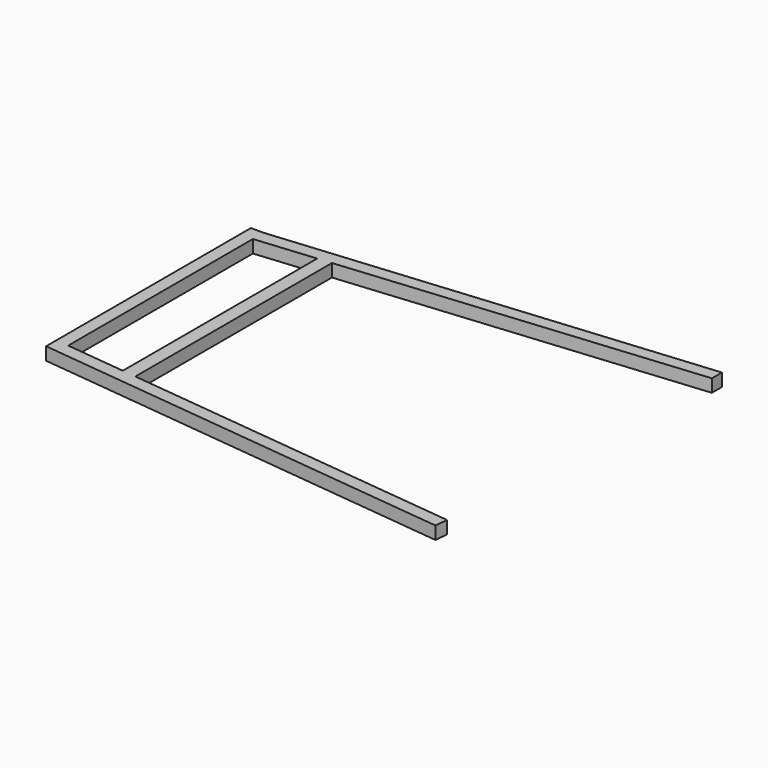
from build123d import *

# Parameters (mm, degrees)
F1_DEPTH = 30


with BuildPart() as f1:
    # F0 (on Top) → F1 (new body)
    with BuildSketch(Plane.XY):
        Polygon((-45.581206, 304.954057), (-75.581206, 304.954057), (-75.581206, -295.045943), (-45.581206, -295.045943), (-45.581206, -267.712643), (-45.581206, 273.296505), align=None)
        Polygon((-45.581206, -295.045943), (-75.581206, -295.045943), (924.418794, -404.579163), (927.732864, -374.322866), (126.900651, -286.605136), (94.68448, -283.076395), (-45.581206, -267.712643), align=None)
        Polygon((126.900651, 289.434935), (94.68448, 286.420598), (94.68448, -283.076395), (126.900651, -286.605136), align=None)
        Polygon((955.307603, 396.427751), (-45.581206, 304.954057), (-45.581206, 273.296505), (94.68448, 286.420598), (126.900651, 289.434935), (955.307603, 366.945624), align=None)
    extrude(amount=F1_DEPTH)


solid = f1.part
